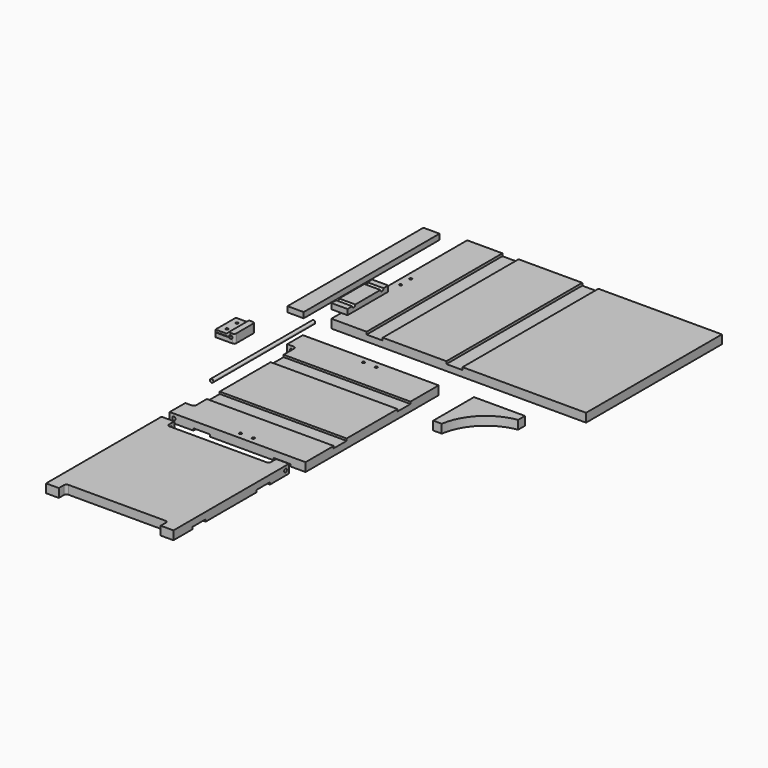
from build123d import *

# Parameters (mm, degrees)
F0_W      = 600
F0_H      = 400
F0_R      = 3
F1_DEPTH  = 20.5
F2_W      = 38
F2_H      = 400
F3_DEPTH  = 6
F4_W      = 38
F4_H      = 400
F5_DEPTH  = 13
F6_R      = 3
F7_DEPTH  = 20.5
F8_W      = 39
F8_H      = 392
F9_DEPTH  = 5
F10_W     = 299
F10_H     = 38
F11_DEPTH = 5
F13_DEPTH = 20.5
F14_W     = 300
F14_H     = 39
F15_DEPTH = 5
F16_R     = 4
F17_DEPTH = 392
F18_R     = 3
F19_DEPTH = 20.5
F21_DEPTH = 60
F22_R     = 4
F23_DEPTH = 300
F24_R     = 4
F25_DEPTH = 300
F27_DEPTH = 20.5
F29_DEPTH = 38


with BuildPart() as f1:
    # F0 (on Top) → F1 (new body)
    with BuildSketch(Plane.XY):
        with Locations((300, 200)):
            Rectangle(F0_W, F0_H)
        with Locations((15, 185)):
            Circle(F0_R, mode=Mode.SUBTRACT)
        with Locations((15, 215)):
            Circle(F0_R, mode=Mode.SUBTRACT)
    extrude(amount=F1_DEPTH)

    # F2 (on face) → F3 (cut)
    with BuildSketch(Plane.XY.offset(20.5)):
        with Locations((290, 200)):
            Rectangle(F2_W, F2_H)
        with Locations((102, 200)):
            Rectangle(F2_W, F2_H)
    extrude(amount=-F3_DEPTH, mode=Mode.SUBTRACT)


with BuildPart() as f5:
    # F4 (on Top) → F5 (new body)
    with BuildSketch(Plane.XY):
        with Locations((-84.2256782055, 200)):
            Rectangle(F4_W, F4_H)
    extrude(amount=F5_DEPTH)


with BuildPart() as f7:
    # F6 (on Top) → F7 (new body)
    with BuildSketch(Plane.XY):
        with BuildLine():
            Line((320, -84), (0, -84))
            Line((0, -84), (0, -130))
            Line((0, -130), (15, -130))
            ThreePointArc((15, -130), (19.2426406871, -131.7573593129), (21, -136))
            Line((21, -136), (21, -424))
            ThreePointArc((21, -424), (19.2426406871, -428.2426406871), (15, -430))
            Line((15, -430), (0, -430))
            Line((0, -430), (0, -476))
            Line((0, -476), (320, -476))
            Line((320, -476), (320, -84))
        make_face()
        with Locations((155, -461)):
            Circle(F6_R, mode=Mode.SUBTRACT)
        with Locations((185, -461)):
            Circle(F6_R, mode=Mode.SUBTRACT)
        with Locations((155, -99)):
            Circle(F6_R, mode=Mode.SUBTRACT)
        with Locations((185, -99)):
            Circle(F6_R, mode=Mode.SUBTRACT)
    extrude(amount=F7_DEPTH)

    # F8 (on face) → F9 (cut)
    with BuildSketch(Plane(origin=(0, 0, 0), x_dir=(1, 0, 0), z_dir=(0, 0, -1))):
        with Locations((264.5, 280)):
            Rectangle(F8_W, F8_H)
        with Locations((75.5, 280)):
            Rectangle(F8_W, F8_H)
    extrude(amount=-F9_DEPTH, mode=Mode.SUBTRACT)

    # F10 (on face) → F11 (cut)
    with BuildSketch(Plane.XY.offset(20.5)):
        with Locations((170.5, -186)):
            Rectangle(F10_W, F10_H)
        with Locations((170.5, -374)):
            Rectangle(F10_W, F10_H)
    extrude(amount=-F11_DEPTH, mode=Mode.SUBTRACT)

    # F16 (on face) → F17 (cut, through all)
    with BuildSketch(Plane.XZ.offset(476)):
        with Locations((10, 10.25)):
            Circle(F16_R)
    extrude(amount=-F17_DEPTH, mode=Mode.SUBTRACT)


with BuildPart() as f13:
    # F12 (on Top) → F13 (new body)
    with BuildSketch(Plane.XY):
        with BuildLine():
            Line((30, -500), (0, -500))
            Line((0, -500), (0, -840))
            Line((0, -840), (30, -840))
            Line((30, -840), (30, -825))
            ThreePointArc((30, -825), (31.7573593129, -820.7573593129), (36, -819))
            Line((36, -819), (264, -819))
            ThreePointArc((264, -819), (268.2426406871, -820.7573593129), (270, -825))
            Line((270, -825), (270, -840))
            Line((270, -840), (300, -840))
            Line((300, -840), (300, -500))
            Line((300, -500), (270, -500))
            Line((270, -500), (270, -515))
            ThreePointArc((270, -515), (268.2426406871, -519.2426406871), (264, -521))
            Line((264, -521), (36, -521))
            ThreePointArc((36, -521), (31.7573593129, -519.2426406871), (30, -515))
            Line((30, -515), (30, -500))
        make_face()
    extrude(amount=F13_DEPTH)

    # F14 (on face) → F15 (cut)
    with BuildSketch(Plane(origin=(0, 0, 0), x_dir=(1, 0, 0), z_dir=(0, 0, -1))):
        with Locations((150, 764.5)):
            Rectangle(F14_W, F14_H)
        with Locations((150, 575.5)):
            Rectangle(F14_W, F14_H)
    extrude(amount=-F15_DEPTH, mode=Mode.SUBTRACT)

    # F22 (on face) → F23 (cut, through all)
    with BuildSketch(Plane(origin=(0, 0, 0), x_dir=(0, -1, 0), z_dir=(-1, 0, 0))):
        with Locations((510, 10.25)):
            Circle(F22_R)
    extrude(amount=-F23_DEPTH, mode=Mode.SUBTRACT)


with BuildPart() as f19:
    # F18 (on Top) → F19 (new body)
    with BuildSketch(Plane.XY):
        with BuildLine():
            ThreePointArc((-100, -105), (-101.4644660941, -101.4644660941), (-105, -100))
            Line((-105, -100), (-145, -100))
            Line((-145, -100), (-145, -160))
            Line((-145, -160), (-105, -160))
            ThreePointArc((-105, -160), (-101.4644660941, -158.5355339059), (-100, -155))
            Line((-100, -155), (-100, -105))
        make_face()
        with Locations((-130, -145)):
            Circle(F18_R, mode=Mode.SUBTRACT)
        with Locations((-130, -115)):
            Circle(F18_R, mode=Mode.SUBTRACT)
    extrude(amount=F19_DEPTH)

    # F20 (on face) → F21 (cut, through all)
    with BuildSketch(Plane.XZ.offset(160)):
        with BuildLine():
            Line((-112.8729833462, 11), (-145, 11))
            Line((-145, 11), (-145, 10))
            Line((-145, 10), (-112.4641016151, 10))
            ThreePointArc((-112.4641016151, 10), (-107.9647238196, 8.1362966948), (-105, 12))
            ThreePointArc((-105, 12), (-109.5040171699, 15.9681187851), (-112.8729833462, 11))
        make_face()
        Polygon((-145, 20.5), (-145, 16), (-119, 16), (-114, 20.5), align=None)
    extrude(amount=-F21_DEPTH, mode=Mode.SUBTRACT)


with BuildPart() as f25:
    # F24 (on Front) → F25 (new body)
    with BuildSketch(Plane.XZ):
        with Locations((-42, 0)):
            Circle(F24_R)
    extrude(amount=F25_DEPTH)


with BuildPart() as f27:
    # F26 (on Top) → F27 (new body)
    with BuildSketch(Plane.XY):
        with BuildLine():
            Line((520, -80), (400, -80))
            Line((400, -80), (400, -200))
            Line((400, -200), (420, -200))
            ThreePointArc((420, -200), (453.7037322616, -133.7037322616), (520, -100))
            Line((520, -100), (520, -80))
        make_face()
    extrude(amount=F27_DEPTH)


with BuildPart() as f29:
    # F28 (on Right) → F29 (new body)
    with BuildSketch(Plane.YZ):
        with BuildLine():
            Line((0, 53), (0, 40))
            Line((0, 40), (120, 40))
            Line((120, 40), (120, 53))
            Line((120, 53), (106, 53))
            ThreePointArc((106, 53), (101.5, 48.5), (97, 53))
            Line((97, 53), (23, 53))
            ThreePointArc((23, 53), (18.5, 48.5), (14, 53))
            Line((14, 53), (0, 53))
        make_face()
    extrude(amount=F29_DEPTH)


solid = Compound([f1.part, f5.part, f7.part, f13.part, f19.part, f25.part, f27.part, f29.part])
